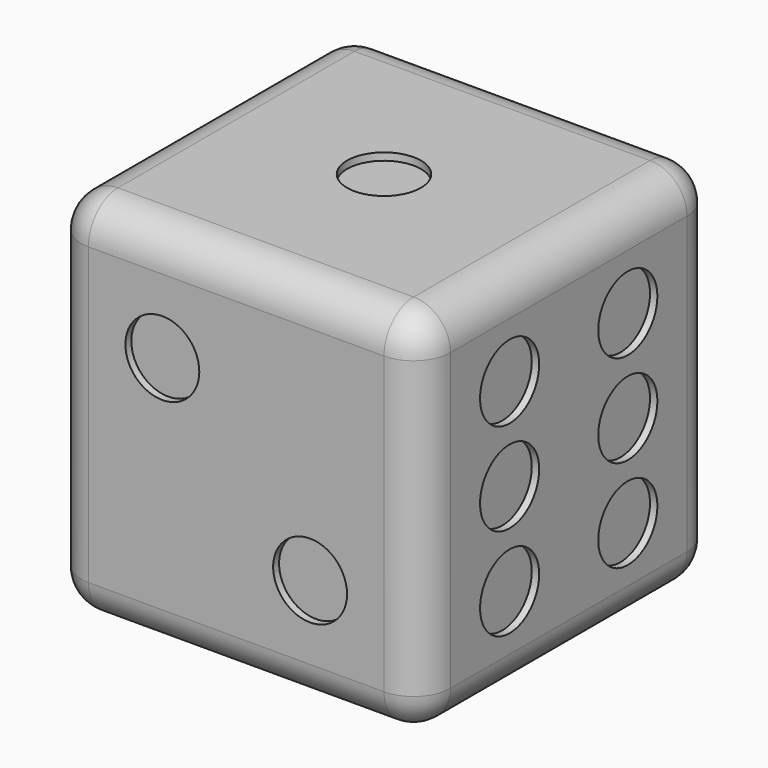
from build123d import *

# Parameters (mm, degrees)
F0_W      = 100
F0_H      = 100
F1_DEPTH  = 50
F2_R      = 10
F3_R      = 10
F4_DEPTH  = 2
F5_R      = 10
F6_DEPTH  = 2
F7_R      = 10
F8_DEPTH  = 2
F9_R      = 10
F10_DEPTH = 2
F11_R     = 10
F12_DEPTH = 2
F13_R     = 10
F14_DEPTH = 2


with BuildPart() as f1:
    # F0 (on Top) → F1 (new body, symmetric)
    with BuildSketch(Plane.XY):
        Rectangle(F0_W, F0_H)
    extrude(amount=F1_DEPTH, both=True)

    # F2
    f2_edges = [f1.edges().sort_by_distance(p)[0] for p in [
        (50, 50, 0),
        (-50, -50, 0),
        (50, -50, 0),
        (0, -50, -50),
        (0, -50, 50),
        (50, 0, -50),
        (50, 0, 50),
        (-50, 0, 50),
        (-50, 50, 0),
        (0, 50, -50),
        (0, 50, 50),
        (-50, 0, -50),
    ]]
    fillet(f2_edges, radius=F2_R)

    # F3 (on face) → F4 (cut)
    with BuildSketch(Plane.XY.offset(50)):
        Circle(F3_R)
    extrude(amount=-F4_DEPTH, mode=Mode.SUBTRACT)

    # F5 (on face) → F6 (cut)
    with BuildSketch(Plane.XZ.offset(50)):
        with Locations((-20, 20)):
            Circle(F5_R)
        with Locations((20, -20)):
            Circle(F5_R)
    extrude(amount=-F6_DEPTH, mode=Mode.SUBTRACT)

    # F7 (on face) → F8 (cut)
    with BuildSketch(Plane(origin=(0, 0, -50), x_dir=(1, 0, 0), z_dir=(0, 0, -1))):
        with Locations((-20, 20)):
            Circle(F7_R)
        Circle(F7_R)
        with Locations((20, -20)):
            Circle(F7_R)
    extrude(amount=-F8_DEPTH, mode=Mode.SUBTRACT)

    # F9 (on face) → F10 (cut)
    with BuildSketch(Plane(origin=(0, 50, 0), x_dir=(-1, 0, 0), z_dir=(0, 1, 0))):
        with Locations((-20, 20)):
            Circle(F9_R)
        with Locations((20, 20)):
            Circle(F9_R)
        with Locations((20, -20)):
            Circle(F9_R)
        with Locations((-20, -20)):
            Circle(F9_R)
    extrude(amount=-F10_DEPTH, mode=Mode.SUBTRACT)

    # F11 (on face) → F12 (cut)
    with BuildSketch(Plane(origin=(-50, 0, 0), x_dir=(0, -1, 0), z_dir=(-1, 0, 0))):
        Circle(F11_R)
        with Locations((-20, 20)):
            Circle(F11_R)
        with Locations((20, 20)):
            Circle(F11_R)
        with Locations((20, -20)):
            Circle(F11_R)
        with Locations((-20, -20)):
            Circle(F11_R)
    extrude(amount=-F12_DEPTH, mode=Mode.SUBTRACT)

    # F13 (on face) → F14 (cut)
    with BuildSketch(Plane.YZ.offset(50)):
        with Locations((-20, 25)):
            Circle(F13_R)
        with Locations((-20, 0)):
            Circle(F13_R)
        with Locations((-20, -25)):
            Circle(F13_R)
        with Locations((20, -25)):
            Circle(F13_R)
        with Locations((20, 0)):
            Circle(F13_R)
        with Locations((20, 25)):
            Circle(F13_R)
    extrude(amount=-F14_DEPTH, mode=Mode.SUBTRACT)


solid = f1.part
